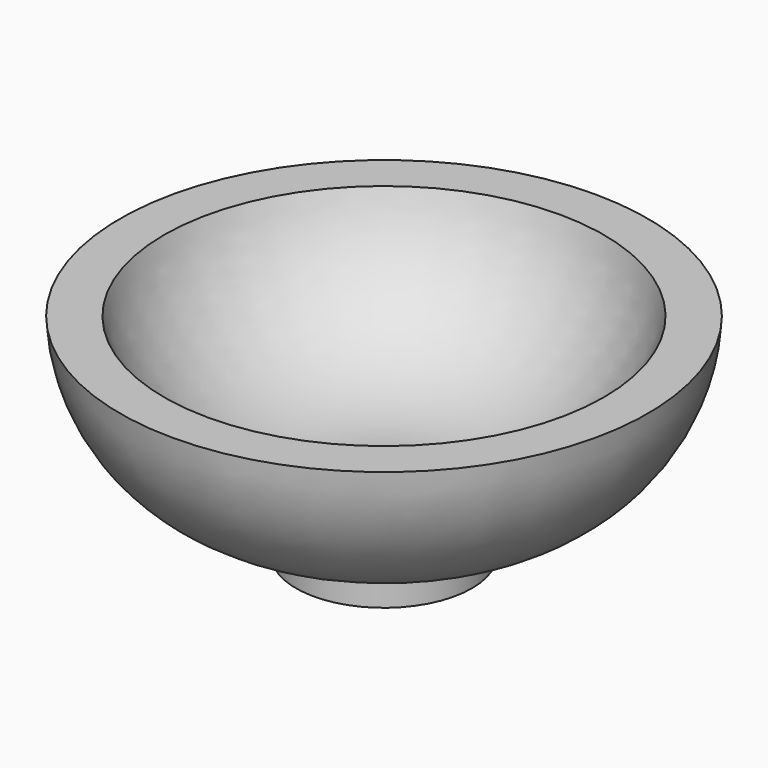
from build123d import *

# Parameters (mm, degrees)
F0_R     = 5
F1_DEPTH = 2.5


with BuildPart() as f1:
    # F0 (on Top) → F1 (new body)
    with BuildSketch(Plane.XY):
        Circle(F0_R)
    extrude(amount=F1_DEPTH)

    # F2 (on Right) → F3 (revolve)
    with BuildSketch(Plane.YZ):
        with BuildLine():
            Line((0, 4.7), (0, 2.5))
            Line((0, 2.5), (5, 2.5))
            ThreePointArc((5, 2.5), (11.896557, 5.253624), (15, 12))
            Line((15, 12), (12.5, 12))
            ThreePointArc((12.5, 12), (7.746825, 5.786943), (0, 4.7))
        make_face()
    revolve(axis=Axis((0, 0, 6), (0, 0, 1)))


solid = f1.part
